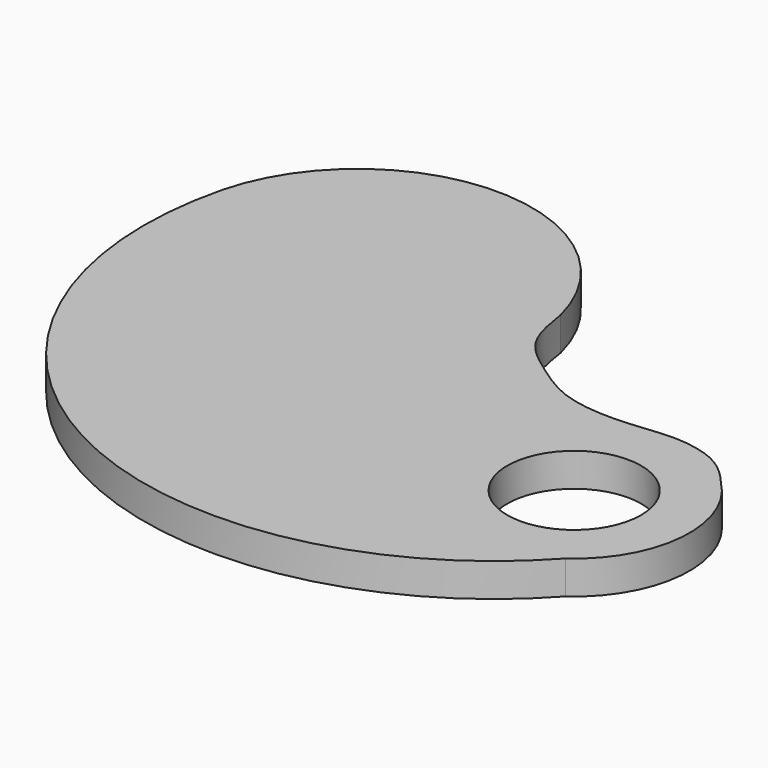
from build123d import *

# Parameters (mm, degrees)
F0_W     = 400
F0_H     = 350
F1_DEPTH = 19
F2_W     = 400
F2_H     = 350
F3_DEPTH = 19.001
F4_R     = 38.0303111514
F5_DEPTH = 19.0010001


with BuildPart() as f1:
    # F0 (on Top) → F1 (new body)
    with BuildSketch(Plane.XY):
        Rectangle(F0_W, F0_H)
    extrude(amount=F1_DEPTH)

    # F2 (on face) → F3 (cut, through all)
    with BuildSketch(Plane.XY.offset(19)):
        Rectangle(F2_W, F2_H)
        with BuildLine():
            ThreePointArc((158.4707796574, -100.301399827), (-82.4477385445, -142.2049434954), (-181.7189997485, 81.2740400434))
            ThreePointArc((-181.7189997485, 81.2740400434), (-85.5590162079, 156.2453408499), (10.6009673327, 81.2740400434))
            add(Edge.make_bspline(
                [(10.6009673327, 81.2740400434), (12.0537158036, 71.790848631), (15.059544227, 52.1997014281), (37.4294986076, 35.9210738365), (59.8496179692, 20.1880319647), (91.7535141562, 16.7841239745), (121.2377669037, 21.3632017782), (139.2062429445, 19.1287691589), (155.2089601755, 13.8627961278), (166.6253805161, 0)],
                knots=[0, 0, 0, 0, 0.1451383216, 0.28483723, 0.426890771, 0.5810119484, 0.7292272805, 0.8398242455, 1, 1, 1, 1], degree=3))
            ThreePointArc((166.6253805161, 0), (185.9978425352, -52.0571882908), (158.4707796574, -100.301399827))
        make_face(mode=Mode.SUBTRACT)
    extrude(amount=-F3_DEPTH, mode=Mode.SUBTRACT)

    # F4 (on face) → F5 (cut, through all)
    with BuildSketch(Plane.XY.offset(19)):
        with Locations((120.645708, -46.7439965176)):
            Circle(F4_R)
    extrude(amount=-F5_DEPTH, mode=Mode.SUBTRACT)


solid = f1.part
